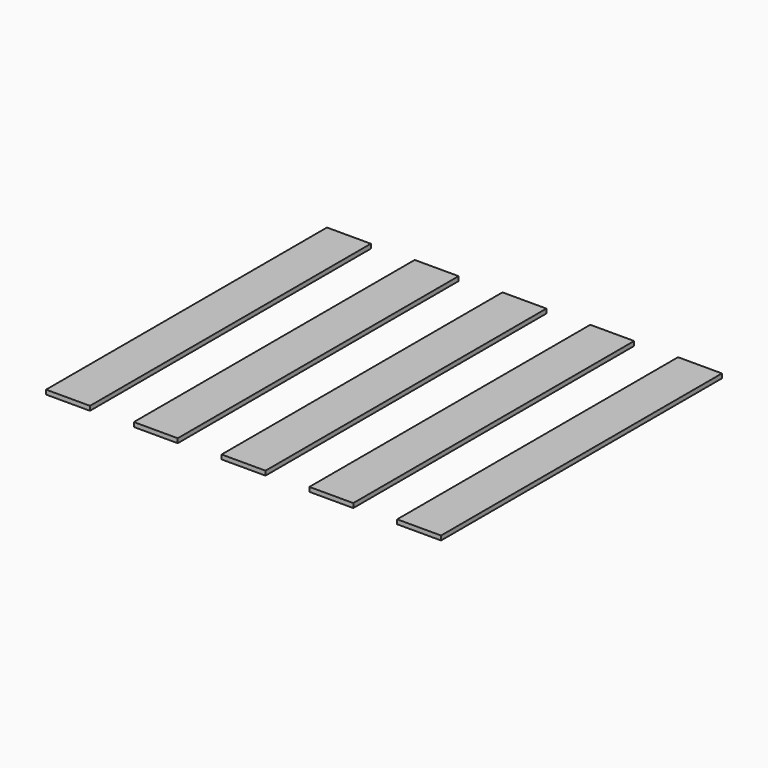
from build123d import *

# Parameters (mm, degrees)
F0_W     = 25.4
F0_H     = 203.2
F1_DEPTH = 2.54


with BuildPart() as f1:
    # F0 (on Top) → F1 (new body)
    with BuildSketch(Plane.XY):
        with Locations((12.7, 101.6)):
            Rectangle(F0_W, F0_H)
        with Locations((63.5, 101.6)):
            Rectangle(F0_W, F0_H)
        with Locations((114.3, 101.6)):
            Rectangle(F0_W, F0_H)
        with Locations((165.1, 101.6)):
            Rectangle(F0_W, F0_H)
        with Locations((215.9, 101.6)):
            Rectangle(F0_W, F0_H)
    extrude(amount=F1_DEPTH)


solid = f1.part
